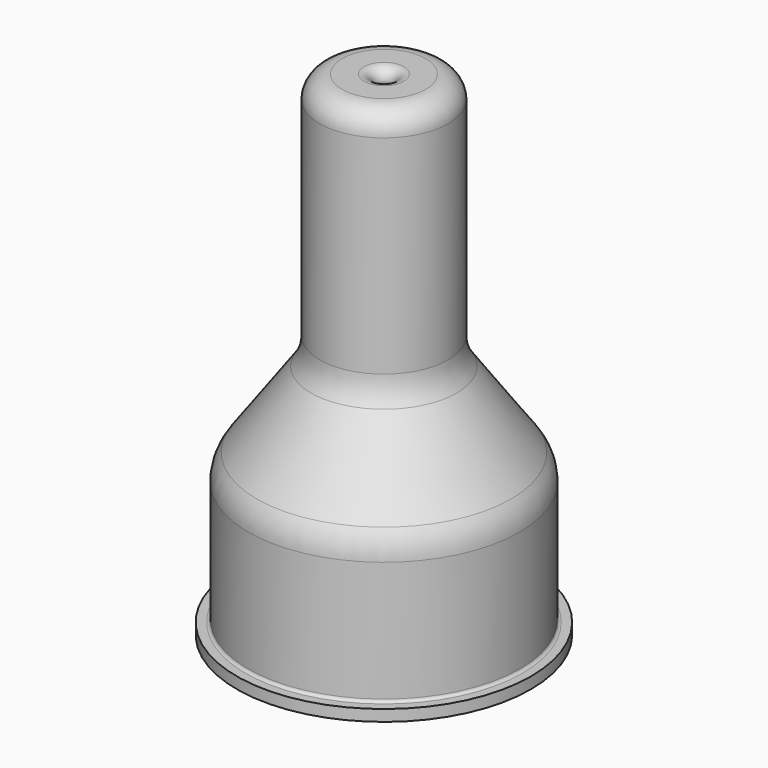
from build123d import *


with BuildPart() as f2:
    # F0 (on Front) → F2 (revolve)
    with BuildSketch(Plane.XZ):
        with BuildLine():
            Line((19.9, 25), (19.9, 3.75))
            ThreePointArc((19.9, 3.75), (20.99835, 1.09835), (23.65, 0))
            Line((23.65, 0), (23.9, 0))
            Line((23.9, 0), (25.9, 0))
            Line((25.9, 0), (25.9, 2))
            Line((25.9, 2), (24.4, 2))
            ThreePointArc((24.4, 2), (24.046447, 2.146447), (23.9, 2.5))
            Line((23.9, 2.5), (23.9, 23.713972))
            ThreePointArc((23.9, 23.713972), (23.516054, 26.162587), (22.401071, 28.376168))
            Line((22.401071, 28.376168), (12.848929, 41.695888))
            ThreePointArc((12.848929, 41.695888), (11.733946, 43.909469), (11.35, 46.358085))
            Line((11.35, 46.358085), (11.35, 83))
            ThreePointArc((11.35, 83), (10.178427, 85.828427), (7.35, 87))
            Line((7.35, 87), (3.5, 87))
            ThreePointArc((3.5, 87), (2.085786, 86.414214), (1.5, 85))
            Line((1.5, 85), (1.5, 84))
            ThreePointArc((1.5, 84), (1.792893, 83.292893), (2.5, 83))
            Line((2.5, 83), (5.35, 83))
            ThreePointArc((5.35, 83), (6.764214, 82.414214), (7.35, 81))
            Line((7.35, 81), (7.35, 45.072056))
            ThreePointArc((7.35, 45.072056), (7.733946, 42.623441), (8.848929, 40.40986))
            Line((8.848929, 40.40986), (19.9, 25))
        make_face()
    revolve(axis=Axis((0, 0, 13.469479), (0, 0, 1)))


solid = f2.part
